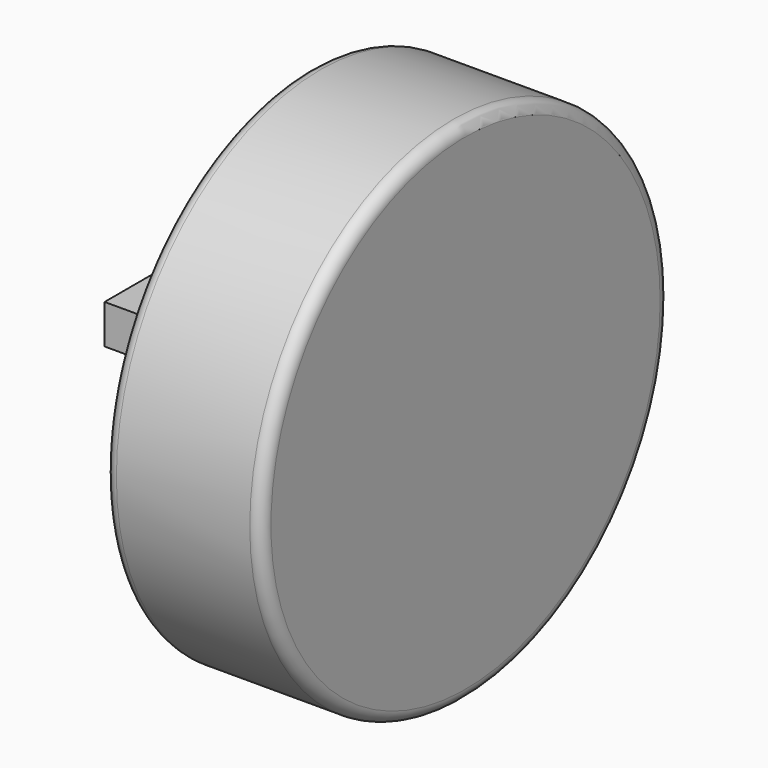
from build123d import *

# Parameters (mm, degrees)
F0_R     = 82.55
F1_DEPTH = 50.8
F2_R     = 3.81
F3_W     = 38.1
F3_H     = 12.7
F4_DEPTH = 50.8


with BuildPart() as f1:
    # F0 (on Right) → F1 (new body)
    with BuildSketch(Plane.YZ):
        Circle(F0_R)
    extrude(amount=F1_DEPTH)

    # F2
    f2_edges = [f1.edges().sort_by_distance(p)[0] for p in [
        (50.8, -82.55, 0),
        (0, -82.55, 0),
    ]]
    fillet(f2_edges, radius=F2_R)

    # F3 (on face) → F4 (join)
    with BuildSketch(Plane(origin=(0, 0, 0), x_dir=(0, -1, 0), z_dir=(-1, 0, 0))):
        Rectangle(F3_W, F3_H)
    extrude(amount=F4_DEPTH)


solid = f1.part
